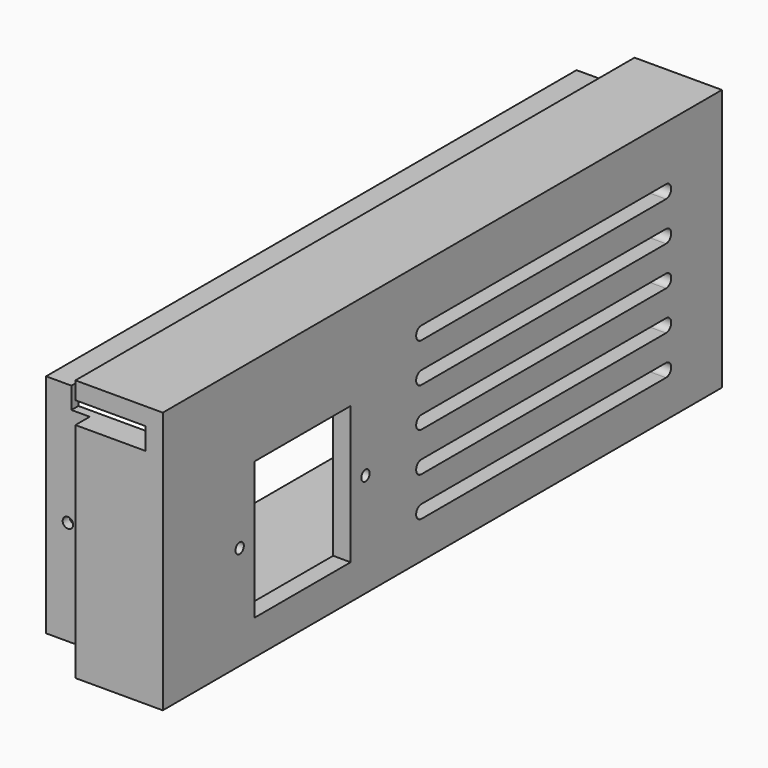
from build123d import *

# Parameters (mm, degrees)
SKETCH011_W             = 160
SKETCH011_H             = 60
SKETCH011_R             = 1.2
SKETCH011_W_2           = 27.5
SKETCH011_H_2           = 31.5
PAD004_DEPTH            = 4
SKETCH012_W             = 151.8
SKETCH012_H             = 51.8
SKETCH012_W_2           = 147.8
SKETCH012_H_2           = 47.8
PAD005_DEPTH            = 30
SKETCH013_W             = 160
SKETCH013_H             = 60
SKETCH013_W_2           = 151.8
SKETCH013_H_2           = 51.8
PAD006_DEPTH            = 20
SKETCH014_W             = 20.2
SKETCH014_H             = 5
POCKET004_DEPTH         = 27
SKETCH027_R             = 1.2
POCKET014_DEPTH         = 160.001
POCKET015_DEPTH         = 30.001
LINEARPATTERN007_COUNT  = 5
LINEARPATTERN007_PITCH  = 9
BODY002_PLACEMENT_ANGLE = 180


with BuildPart() as part:
    # Sketch011 → Pad004 (new body)
    with BuildSketch(Plane.YZ):
        with Locations((0, 30)):
            Rectangle(SKETCH011_W, SKETCH011_H)
        with Locations((22, 23.75)):
            Circle(SKETCH011_R, mode=Mode.SUBTRACT)
        with Locations((58, 23.75)):
            Circle(SKETCH011_R, mode=Mode.SUBTRACT)
        with Locations((40, 23.75)):
            Rectangle(SKETCH011_W_2, SKETCH011_H_2, mode=Mode.SUBTRACT)
    extrude(amount=PAD004_DEPTH)

    # Sketch012 → Pad005 (join)
    with BuildSketch(Plane.YZ):
        with Locations((0, 30)):
            Rectangle(SKETCH012_W, SKETCH012_H)
        with Locations((0, 30)):
            Rectangle(SKETCH012_W_2, SKETCH012_H_2, mode=Mode.SUBTRACT)
    extrude(amount=PAD005_DEPTH)

    # Sketch013 → Pad006 (join)
    with BuildSketch(Plane.YZ):
        with Locations((0, 30)):
            Rectangle(SKETCH013_W, SKETCH013_H)
        with Locations((0, 30)):
            Rectangle(SKETCH013_W_2, SKETCH013_H_2, mode=Mode.SUBTRACT)
    extrude(amount=PAD006_DEPTH)

    # Sketch014 (on DatumPlane) → Pocket004 (cut)
    with BuildSketch(Plane.XZ.offset(-80)):
        with Locations((14.1, 53.5)):
            Rectangle(SKETCH014_W, SKETCH014_H)
    extrude(amount=POCKET004_DEPTH, mode=Mode.SUBTRACT)

    # Sketch027 (on DatumPlane) → Pocket014 (cut, through all)
    with BuildSketch(Plane.XZ.offset(-80)):
        with Locations((25, 28)):
            Circle(SKETCH027_R)
    extrude(amount=POCKET014_DEPTH, mode=Mode.SUBTRACT)

    # Sketch028 → Pocket015 (cut, through all)
    with BuildSketch(Plane.YZ):
        with BuildLine():
            Line((6, 11.5), (-64, 11.5))
            ThreePointArc((-64, 11.5), (-65.5, 10), (-64, 8.5))
            Line((6, 8.5), (-64, 8.5))
            ThreePointArc((6, 8.5), (7.5, 10), (6, 11.5))
        make_face()
    pocket015 = extrude(amount=POCKET015_DEPTH, mode=Mode.SUBTRACT)

    # LinearPattern007: Pocket015 ×5
    with Locations(*[(0, 0, i * LINEARPATTERN007_PITCH) for i in range(1, LINEARPATTERN007_COUNT)]):
        add(pocket015, mode=Mode.SUBTRACT)


with BuildPart() as part_1:
    # Body002 placement: moved
    add(part.part.moved(Location((200, 0, -4))).rotate(Axis((200, 0, -4), (0, 0, 1)), BODY002_PLACEMENT_ANGLE))


solid = part_1.part
